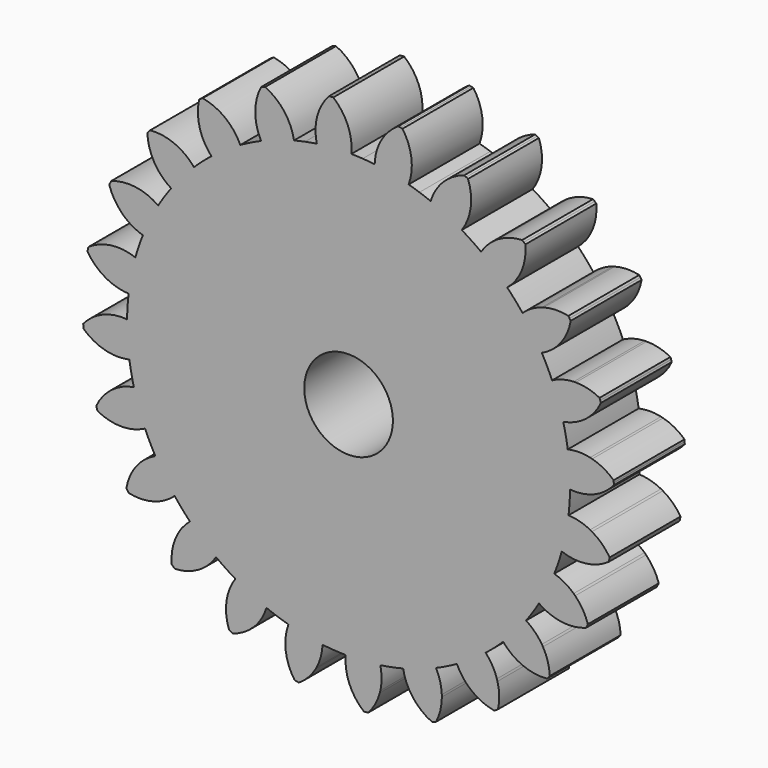
from build123d import *

# Parameters (mm, degrees)
F1_DEPTH = 12.7
F2_COUNT = 24
F2_ANGLE = 345
F4_D     = 25.4


with BuildPart() as f1:
    # F0 (on Front) → F1 (new body, symmetric)
    with BuildSketch(Plane.XZ):
        with BuildLine():
            Line((-31.75, 54.9926131403), (0, 0))
            Line((0, 0), (-16.435009364, 61.3362899694))
            ThreePointArc((-16.435009364, 61.3362899694), (-24.3003979552, 58.6663503145), (-31.75, 54.9926131403))
        make_face()
        with BuildLine():
            Line((-44.9012806053, 44.9012806053), (0, 0))
            Line((0, 0), (-31.75, 54.9926131403))
            ThreePointArc((-31.75, 54.9926131403), (-38.6563507421, 50.3779371085), (-44.9012806053, 44.9012806053))
        make_face()
        with BuildLine():
            Line((0, 0), (0, 55.245))
            ThreePointArc((0, 55.245), (-1.8403425433, 55.3614126181), (-3.6513473128, 55.7087946836))
            Line((-3.6513473128, 55.7087946836), (0, 0))
        make_face()
        with BuildLine():
            Line((-63.4999718868, 0.0597526459), (0, 0))
            Line((0, 0), (-61.3362899694, 16.435009364))
            ThreePointArc((-61.3362899694, 16.435009364), (-62.952842086, 8.3180330187), (-63.4999718868, 0.0597526459))
        make_face()
        with BuildLine():
            Line((-16.435009364, 61.3362899694), (0, 0))
            Line((0, 0), (-3.6513473128, 55.7087946836))
            ThreePointArc((-3.6513473128, 55.7087946836), (-8.7052871089, 58.122937224), (-12.4789617732, 62.26175))
            ThreePointArc((-12.4789617732, 62.26175), (-14.4643890572, 61.8306675461), (-16.435009364, 61.3362899694))
        make_face()
        with BuildLine():
            Line((-61.3362899694, 16.435009364), (0, 0))
            Line((0, 0), (-54.9926131403, 31.75))
            ThreePointArc((-54.9926131403, 31.75), (-58.6663503145, 24.3003979552), (-61.3362899694, 16.435009364))
        make_face()
        with BuildLine():
            Line((-54.9926131403, 31.75), (0, 0))
            Line((0, 0), (-44.9012806053, 44.9012806053))
            ThreePointArc((-44.9012806053, 44.9012806053), (-50.3779371085, 38.6563507421), (-54.9926131403, 31.75))
        make_face()
        with BuildLine():
            Line((54.9926131403, 31.75), (0, 0))
            Line((0, 0), (61.3362899694, 16.435009364))
            ThreePointArc((61.3362899694, 16.435009364), (58.6663503145, 24.3003979552), (54.9926131403, 31.75))
        make_face()
        with BuildLine():
            Line((31.75, 54.9926131403), (0, 0))
            Line((0, 0), (44.9012806053, 44.9012806053))
            ThreePointArc((44.9012806053, 44.9012806053), (38.6563507421, 50.3779371085), (31.75, 54.9926131403))
        make_face()
        with BuildLine():
            Line((61.3362899694, 16.435009364), (0, 0))
            Line((0, 0), (63.5, 0))
            ThreePointArc((63.5, 0), (62.9567486972, 8.288413206), (61.3362899694, 16.435009364))
        make_face()
        with BuildLine():
            ThreePointArc((12.4789617732, 62.26175), (7.158199276, 57.1194773035), (0, 55.245))
            Line((0, 55.245), (0, 0))
            Line((0, 0), (16.435009364, 61.3362899694))
            ThreePointArc((16.435009364, 61.3362899694), (14.4643890572, 61.8306675461), (12.4789617732, 62.26175))
        make_face()
        with BuildLine():
            Line((16.435009364, 61.3362899694), (0, 0))
            Line((0, 0), (31.75, 54.9926131403))
            ThreePointArc((31.75, 54.9926131403), (24.3003979552, 58.6663503145), (16.435009364, 61.3362899694))
        make_face()
        with BuildLine():
            Line((44.9012806053, 44.9012806053), (0, 0))
            Line((0, 0), (54.9926131403, 31.75))
            ThreePointArc((54.9926131403, 31.75), (50.3779371085, 38.6563507421), (44.9012806053, 44.9012806053))
        make_face()
        with BuildLine():
            Line((-54.9926131403, -31.75), (0, 0))
            Line((0, 0), (-61.3362899694, -16.435009364))
            ThreePointArc((-61.3362899694, -16.435009364), (-58.6663503145, -24.3003979552), (-54.9926131403, -31.75))
        make_face()
        with BuildLine():
            Line((-31.75, -54.9926131403), (0, 0))
            Line((0, 0), (-44.9012806053, -44.9012806053))
            ThreePointArc((-44.9012806053, -44.9012806053), (-38.6563507421, -50.3779371085), (-31.75, -54.9926131403))
        make_face()
        with BuildLine():
            Line((-44.9012806053, -44.9012806053), (0, 0))
            Line((0, 0), (-54.9926131403, -31.75))
            ThreePointArc((-54.9926131403, -31.75), (-50.3779371085, -38.6563507421), (-44.9012806053, -44.9012806053))
        make_face()
        with BuildLine():
            Line((0, -63.5), (0, 0))
            Line((0, 0), (-16.435009364, -61.3362899694))
            ThreePointArc((-16.435009364, -61.3362899694), (-8.288413206, -62.9567486972), (0, -63.5))
        make_face()
        with BuildLine():
            Line((-16.435009364, -61.3362899694), (0, 0))
            Line((0, 0), (-31.75, -54.9926131403))
            ThreePointArc((-31.75, -54.9926131403), (-24.3003979552, -58.6663503145), (-16.435009364, -61.3362899694))
        make_face()
        with BuildLine():
            Line((-61.3362899694, -16.435009364), (0, 0))
            Line((0, 0), (-63.4999718868, 0.0597526459))
            ThreePointArc((-63.4999718868, 0.0597526459), (-62.9606413722, -8.2587915585), (-61.3362899694, -16.435009364))
        make_face()
        with BuildLine():
            Line((0, 55.245), (0, 63.5))
            ThreePointArc((0, 63.5), (-2.0776617592, 63.4660013047), (-4.1530987061, 63.3640416257))
            Line((-4.1530987061, 63.3640416257), (-3.6513473128, 55.7087946836))
            ThreePointArc((-3.6513473128, 55.7087946836), (-1.8403425433, 55.3614126181), (0, 55.245))
        make_face()
        with BuildLine():
            Line((-3.6513473128, 55.7087946836), (-4.1530987061, 63.3640416257))
            ThreePointArc((-4.1530987061, 63.3640416257), (-6.6306628061, 63.1528646282), (-9.0980596657, 62.8448511043))
            ThreePointArc((-9.0980596657, 62.8448511043), (-10.7924494564, 62.576137902), (-12.4789617732, 62.26175))
            ThreePointArc((-12.4789617732, 62.26175), (-8.7052871089, 58.122937224), (-3.6513473128, 55.7087946836))
        make_face()
        with BuildLine():
            ThreePointArc((0.8173253887, 63.4947397759), (0.4086711578, 63.4986849304), (0, 63.5))
            Line((0, 63.5), (0, 55.245))
            ThreePointArc((0, 55.245), (7.158199276, 57.1194773035), (12.4789617732, 62.26175))
            ThreePointArc((12.4789617732, 62.26175), (6.6766667597, 63.1480175538), (0.8173253887, 63.4947397759))
        make_face()
        with BuildLine():
            Line((0, 63.5), (0, 69.85))
            Line((0, 69.85), (-4.4715384401, 68.2224931064))
            Line((-4.4715384401, 68.2224931064), (-4.1530987061, 63.3640416257))
            ThreePointArc((-4.1530987061, 63.3640416257), (-2.0776617592, 63.4660013047), (0, 63.5))
        make_face()
        with BuildLine():
            Line((-4.1530987061, 63.3640416257), (-4.4715384401, 68.2224931064))
            Line((-4.4715384401, 68.2224931064), (-9.4600431371, 66.4068258832))
            ThreePointArc((-9.4600431371, 66.4068258832), (-9.3886138378, 64.6147042793), (-9.0980596657, 62.8448511043))
            ThreePointArc((-9.0980596657, 62.8448511043), (-6.6306628061, 63.1528646282), (-4.1530987061, 63.3640416257))
        make_face()
        with BuildLine():
            Line((-4.4715384401, 68.2224931064), (-4.5684085767, 69.7004457882))
            ThreePointArc((-4.5684085767, 69.7004457882), (-6.846497252, 69.5136531581), (-9.1172545266, 69.252423567))
            ThreePointArc((-9.1172545266, 69.252423567), (-9.3586222424, 67.8380539167), (-9.4600431371, 66.4068258832))
            Line((-9.4600431371, 66.4068258832), (-4.4715384401, 68.2224931064))
        make_face()
        with BuildLine():
            ThreePointArc((-9.1172545266, 69.252423567), (-6.846497252, 69.5136531581), (-4.5684085767, 69.7004457882))
            Line((-4.5684085767, 69.7004457882), (-4.5782108776, 69.85))
            Line((-4.5782108776, 69.85), (-8.9715081429, 69.85))
            ThreePointArc((-8.9715081429, 69.85), (-9.0475275684, 69.5519791367), (-9.1172545266, 69.252423567))
        make_face()
        with BuildLine():
            Line((-8.9715081429, 69.85), (-4.5782108776, 69.85))
            Line((-4.5782108776, 69.85), (-4.9837184473, 76.0368499508))
            ThreePointArc((-4.9837184473, 76.0368499508), (-5.2884845579, 76.0162609649), (-5.5931656854, 75.9944504396))
            ThreePointArc((-5.5931656854, 75.9944504396), (-7.6565566905, 73.1279787809), (-8.9715081429, 69.85))
        make_face()
        with BuildLine():
            Line((-4.5782108776, 69.85), (0, 69.85))
            ThreePointArc((0, 69.85), (-1.7745886081, 73.2519712977), (-4.3739508681, 76.0743620006))
            ThreePointArc((-4.3739508681, 76.0743620006), (-4.6788722512, 76.0562170664), (-4.9837184473, 76.0368499508))
            Line((-4.9837184473, 76.0368499508), (-4.5782108776, 69.85))
        make_face()
        with BuildLine():
            ThreePointArc((0.8173253887, 63.4947397759), (0.7614871945, 66.7177452796), (0, 69.85))
            Line((0, 69.85), (0, 63.5))
            ThreePointArc((0, 63.5), (0.4086711578, 63.4986849304), (0.8173253887, 63.4947397759))
        make_face()
        with BuildLine():
            ThreePointArc((-4.5684085767, 69.7004457882), (-2.2854279351, 69.8126014352), (0, 69.85))
            Line((0, 69.85), (-4.5782108776, 69.85))
            Line((-4.5782108776, 69.85), (-4.5684085767, 69.7004457882))
        make_face()
        with BuildLine():
            Line((-4.4715384401, 68.2224931064), (0, 69.85))
            ThreePointArc((0, 69.85), (-2.2854279351, 69.8126014352), (-4.5684085767, 69.7004457882))
            Line((-4.5684085767, 69.7004457882), (-4.4715384401, 68.2224931064))
        make_face()
        with BuildLine():
            Line((54.9926131403, -31.75), (0, 0))
            Line((0, 0), (44.9012806053, -44.9012806053))
            ThreePointArc((44.9012806053, -44.9012806053), (50.3779371085, -38.6563507421), (54.9926131403, -31.75))
        make_face()
        with BuildLine():
            Line((61.3362899694, -16.435009364), (0, 0))
            Line((0, 0), (54.9926131403, -31.75))
            ThreePointArc((54.9926131403, -31.75), (58.6663503145, -24.3003979552), (61.3362899694, -16.435009364))
        make_face()
        with BuildLine():
            Line((63.5, 0), (0, 0))
            Line((0, 0), (61.3362899694, -16.435009364))
            ThreePointArc((61.3362899694, -16.435009364), (62.9567486972, -8.288413206), (63.5, 0))
        make_face()
        with BuildLine():
            Line((44.9012806053, -44.9012806053), (0, 0))
            Line((0, 0), (31.75, -54.9926131403))
            ThreePointArc((31.75, -54.9926131403), (38.6563507421, -50.3779371085), (44.9012806053, -44.9012806053))
        make_face()
        with BuildLine():
            Line((16.435009364, -61.3362899694), (0, 0))
            Line((0, 0), (0, -63.5))
            ThreePointArc((0, -63.5), (8.288413206, -62.9567486972), (16.435009364, -61.3362899694))
        make_face()
        with BuildLine():
            Line((31.75, -54.9926131403), (0, 0))
            Line((0, 0), (16.435009364, -61.3362899694))
            ThreePointArc((16.435009364, -61.3362899694), (24.3003979552, -58.6663503145), (31.75, -54.9926131403))
        make_face()
    extrude(amount=F1_DEPTH, both=True)

    # F2: F1 ×24 about axis
    f2_axis = Axis((0, 0, 0), (0, -1, 0))


with BuildPart() as f1_1:
    add(f1.part)
    for i in range(1, F2_COUNT):
        add(f1.part.rotate(f2_axis, i * F2_ANGLE / (F2_COUNT - 1)))

    # F4 (through all)
    with Locations(Plane.XZ.offset(12.7)):
        with Locations((0, 0)):
            Hole(F4_D / 2)


solid = f1_1.part
